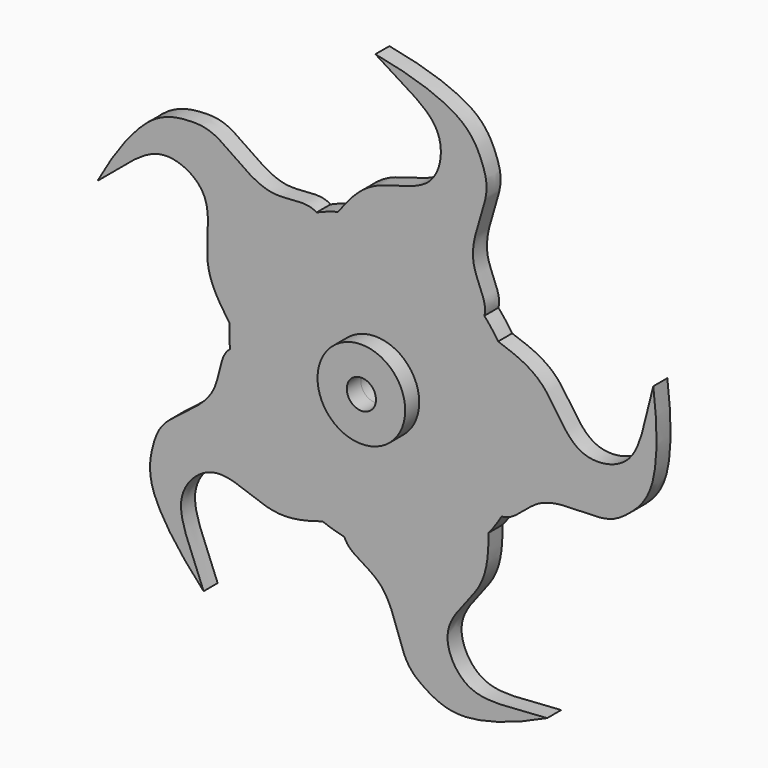
from build123d import *

# Parameters (mm, degrees)
F1_DEPTH = 3
F3_COUNT = 5
F4_R     = 2.5
F5_DEPTH = 3
F7_R     = 7.5
F7_R_2   = 2.5
F8_DEPTH = 3


with BuildPart() as f1:
    # F0 (on Front) → F1 (new body)
    with BuildSketch(Plane.XZ):
        with BuildLine():
            ThreePointArc((-6.4064275077, 24.1652164606), (7.1802315771, 23.9466965258), (18.6456198428, 16.6535539954))
            add(Edge.make_bspline(
                [(0, 50), (5.4752053314, 48.9870299865), (15.1956288518, 46.1472010196), (18.4135211284, 39.657308755), (19.7986928673, 34.5709188014), (14.5438348398, 24.2751019543), (19.322329273, 19.0016283629), (18.6456198428, 16.6535539954)],
                knots=[0, 0, 0, 0, 0.2669854229, 0.4379263337, 0.5889285558, 0.8084269905, 1, 1, 1, 1], degree=3))
            add(Edge.make_bspline(
                [(0, 50), (6.0767503455, 46.164855361), (12.3433645668, 43.2573090849), (10.5437457987, 31.9559472859), (-0.898028492, 31.2765938229), (-4.5042521994, 26.6763451486), (-6.4064275077, 24.1652164606)],
                knots=[0, 0, 0, 0, 0.29590245, 0.5151018296, 0.7647825177, 1, 1, 1, 1], degree=3))
        make_face()
        with BuildLine():
            ThreePointArc((-6.4064275077, 24.1652164606), (-15.2453158758, -19.8136403482), (25, 0))
            ThreePointArc((25, 0), (23.3574452378, 8.9123370653), (18.6456198428, 16.6535539954))
            ThreePointArc((18.6456198428, 16.6535539954), (7.1802315771, 23.9466965258), (-6.4064275077, 24.1652164606))
        make_face()
    extrude(amount=F1_DEPTH)


with BuildPart() as f3_1:
    # F3: instance of F1
    add(f1.part.rotate(Axis((0, 4.5021800324, 0), (0, 1, 0)), 1 * 360 / F3_COUNT))


with BuildPart() as f3_2:
    # F3: instance of F1
    add(f1.part.rotate(Axis((0, 4.5021800324, 0), (0, 1, 0)), 2 * 360 / F3_COUNT))


with BuildPart() as f3_3:
    # F3: instance of F1
    add(f1.part.rotate(Axis((0, 4.5021800324, 0), (0, 1, 0)), 3 * 360 / F3_COUNT))


with BuildPart() as f3_4:
    # F3: instance of F1
    add(f1.part.rotate(Axis((0, 4.5021800324, 0), (0, 1, 0)), 4 * 360 / F3_COUNT))


with BuildPart() as f5_tool:
    # F4 (on face) → F5 (new body, through all)
    with BuildSketch(Plane.XZ.offset(3)):
        Circle(F4_R)
    extrude(amount=-F5_DEPTH)


with BuildPart() as f1_1:
    add(f1.part)

    # F5: cut by f5_tool
    add(f5_tool.part, mode=Mode.SUBTRACT)


with BuildPart() as f3_1_1:
    add(f3_1.part)

    # F5: cut by f5_tool
    add(f5_tool.part, mode=Mode.SUBTRACT)


with BuildPart() as f3_2_1:
    add(f3_2.part)

    # F5: cut by f5_tool
    add(f5_tool.part, mode=Mode.SUBTRACT)


with BuildPart() as f3_3_1:
    add(f3_3.part)

    # F5: cut by f5_tool
    add(f5_tool.part, mode=Mode.SUBTRACT)


with BuildPart() as f3_4_1:
    add(f3_4.part)

    # F5: cut by f5_tool
    add(f5_tool.part, mode=Mode.SUBTRACT)


with BuildPart() as f1_2:
    add(f1_1.part)

    # F6: union F3_1, F3_2, F3_3, F3_4
    add(f3_1_1.part)
    add(f3_2_1.part)
    add(f3_3_1.part)
    add(f3_4_1.part)


with BuildPart() as f8:
    # F7 (on face) → F8 (new body)
    with BuildSketch(Plane.XZ.offset(3)):
        Circle(F7_R)
        Circle(F7_R_2, mode=Mode.SUBTRACT)
    extrude(amount=F8_DEPTH)


solid = Compound([f1_2.part, f8.part])
